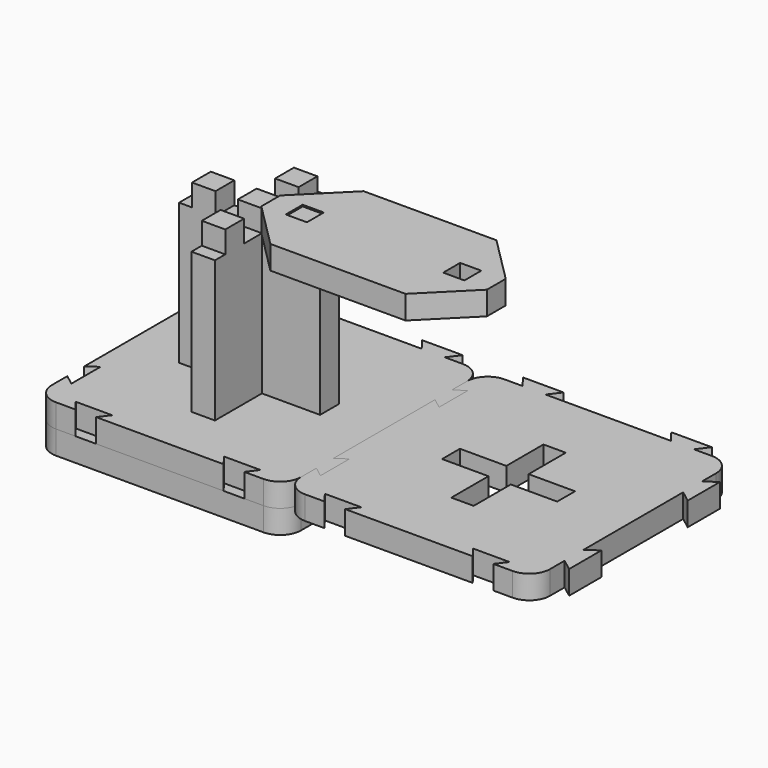
from build123d import *

# Parameters (mm, degrees)
SKETCH_W                     = 31.8
SKETCH_H                     = 31.8
PAD_DEPTH                    = 3
SKETCH001_R                  = 1.325
POCKET_DEPTH                 = 93.144885
SKETCH001_LINEARPATTERN_2_R  = 1.325
POCKET_LINEARPATTERN_2_DEPTH = 93.144885
SKETCH001_LINEARPATTERN_3_R  = 1.325
POCKET_LINEARPATTERN_3_DEPTH = 93.144885
SKETCH001_LINEARPATTERN_4_R  = 1.325
POCKET_LINEARPATTERN_4_DEPTH = 93.144885
SKETCH001_LINEARPATTERN_5_R  = 1.325
POCKET_LINEARPATTERN_5_DEPTH = 93.144885
SKETCH001_LINEARPATTERN_6_R  = 1.325
POCKET_LINEARPATTERN_6_DEPTH = 93.144885
SKETCH001_LINEARPATTERN_7_R  = 1.325
POCKET_LINEARPATTERN_7_DEPTH = 93.144885
SKETCH001_LINEARPATTERN_8_R  = 1.325
POCKET_LINEARPATTERN_8_DEPTH = 93.144885
LINEARPATTERN001_COUNT       = 8
LINEARPATTERN001_PITCH       = 3.785714
FILLET_R                     = 2.65
PAD001_DEPTH                 = 3
FILLET001_R                  = 2.65
POCKET001_DEPTH              = 3.001
PAD002_DEPTH                 = 3
CLONE001_ROLL_ANGLE          = 180
CLONE001_PLACEMENT_ANGLE     = -90
SKETCH005_W                  = 2.7
SKETCH005_H                  = 2.7
PAD003_DEPTH                 = 3


with BuildPart() as stamp_base:
    # Sketch → Pad (new body)
    with BuildSketch(Plane.XY):
        with Locations((15.9, -15.9)):
            Rectangle(SKETCH_W, SKETCH_H)
    extrude(amount=PAD_DEPTH)

    # Sketch001 (on Face6 of Pad) → Pocket (cut, through all)
    with BuildSketch(Plane.XY.offset(3)):
        with Locations((2.65, -2.65)):
            Circle(SKETCH001_R)
    pocket = extrude(amount=-POCKET_DEPTH, mode=Mode.SUBTRACT)

    # Sketch001 LinearPattern 2 → Pocket LinearPattern 2 (cut, through all)
    with BuildSketch(Plane(origin=(3.785714, 0, 3), x_dir=(1, 0, 0), z_dir=(0, 0, 1))):
        with Locations((2.65, -2.65)):
            Circle(SKETCH001_LINEARPATTERN_2_R)
    pocket_linearpattern_2 = extrude(amount=-POCKET_LINEARPATTERN_2_DEPTH, mode=Mode.SUBTRACT)

    # Sketch001 LinearPattern 3 → Pocket LinearPattern 3 (cut, through all)
    with BuildSketch(Plane(origin=(7.571429, 0, 3), x_dir=(1, 0, 0), z_dir=(0, 0, 1))):
        with Locations((2.65, -2.65)):
            Circle(SKETCH001_LINEARPATTERN_3_R)
    pocket_linearpattern_3 = extrude(amount=-POCKET_LINEARPATTERN_3_DEPTH, mode=Mode.SUBTRACT)

    # Sketch001 LinearPattern 4 → Pocket LinearPattern 4 (cut, through all)
    with BuildSketch(Plane(origin=(11.357143, 0, 3), x_dir=(1, 0, 0), z_dir=(0, 0, 1))):
        with Locations((2.65, -2.65)):
            Circle(SKETCH001_LINEARPATTERN_4_R)
    pocket_linearpattern_4 = extrude(amount=-POCKET_LINEARPATTERN_4_DEPTH, mode=Mode.SUBTRACT)

    # Sketch001 LinearPattern 5 → Pocket LinearPattern 5 (cut, through all)
    with BuildSketch(Plane(origin=(15.142857, 0, 3), x_dir=(1, 0, 0), z_dir=(0, 0, 1))):
        with Locations((2.65, -2.65)):
            Circle(SKETCH001_LINEARPATTERN_5_R)
    pocket_linearpattern_5 = extrude(amount=-POCKET_LINEARPATTERN_5_DEPTH, mode=Mode.SUBTRACT)

    # Sketch001 LinearPattern 6 → Pocket LinearPattern 6 (cut, through all)
    with BuildSketch(Plane(origin=(18.928571, 0, 3), x_dir=(1, 0, 0), z_dir=(0, 0, 1))):
        with Locations((2.65, -2.65)):
            Circle(SKETCH001_LINEARPATTERN_6_R)
    pocket_linearpattern_6 = extrude(amount=-POCKET_LINEARPATTERN_6_DEPTH, mode=Mode.SUBTRACT)

    # Sketch001 LinearPattern 7 → Pocket LinearPattern 7 (cut, through all)
    with BuildSketch(Plane(origin=(22.714286, 0, 3), x_dir=(1, 0, 0), z_dir=(0, 0, 1))):
        with Locations((2.65, -2.65)):
            Circle(SKETCH001_LINEARPATTERN_7_R)
    pocket_linearpattern_7 = extrude(amount=-POCKET_LINEARPATTERN_7_DEPTH, mode=Mode.SUBTRACT)

    # Sketch001 LinearPattern 8 → Pocket LinearPattern 8 (cut, through all)
    with BuildSketch(Plane(origin=(26.5, 0, 3), x_dir=(1, 0, 0), z_dir=(0, 0, 1))):
        with Locations((2.65, -2.65)):
            Circle(SKETCH001_LINEARPATTERN_8_R)
    pocket_linearpattern_8 = extrude(amount=-POCKET_LINEARPATTERN_8_DEPTH, mode=Mode.SUBTRACT)

    # LinearPattern001: Pocket, Pocket LinearPattern 2, Pocket LinearPattern 3, Pocket LinearPattern 4, Pocket LinearPattern 5, Pocket LinearPattern 6, Pocket LinearPattern 7, Pocket LinearPattern 8 ×8
    with Locations(*[(0, -i * LINEARPATTERN001_PITCH, 0) for i in range(1, LINEARPATTERN001_COUNT)]):
        add(pocket, mode=Mode.SUBTRACT)
        add(pocket_linearpattern_2, mode=Mode.SUBTRACT)
        add(pocket_linearpattern_3, mode=Mode.SUBTRACT)
        add(pocket_linearpattern_4, mode=Mode.SUBTRACT)
        add(pocket_linearpattern_5, mode=Mode.SUBTRACT)
        add(pocket_linearpattern_6, mode=Mode.SUBTRACT)
        add(pocket_linearpattern_7, mode=Mode.SUBTRACT)
        add(pocket_linearpattern_8, mode=Mode.SUBTRACT)

    # Fillet
    fillet_edges = [stamp_base.edges().sort_by_distance(p)[0] for p in [
        (0, 0, 1.5),
        (31.8, 0, 1.5),
        (0, -31.8, 1.5),
        (31.8, -31.8, 1.5),
    ]]
    fillet(fillet_edges, radius=FILLET_R)


with BuildPart() as stamp_back:
    # Sketch002 (on Face5 of Binder) → Pad001 (new body)
    with BuildSketch(Plane.XY.offset(3)):
        Polygon((31.8, -31.8), (26.689286, -31.8), (27.689286, -30.475), (23.039286, -30.475), (24.039286, -31.8), (7.760714, -31.8), (8.760714, -30.475), (4.110714, -30.475), (5.110714, -31.8), (0, -31.8), (0, -26.689286), (1.325, -27.689286), (1.325, -23.039286), (0, -24.039286), (0, -7.760714), (1.325, -8.760714), (1.325, -4.110714), (0, -5.110714), (0, 0), (4.960714, 0), (3.847507, 1.475), (9.023922, 1.475), (7.910714, 0), (23.889286, 0), (22.776078, 1.475), (27.952493, 1.475), (26.839286, 0), (31.8, 0), (31.8, -4.960714), (33.275, -3.847507), (33.275, -9.023922), (31.8, -7.910714), (31.8, -23.889286), (33.275, -22.776078), (33.275, -27.952493), (31.8, -26.839286), align=None)
    extrude(amount=PAD001_DEPTH)

    # Fillet001
    fillet001_edges = [stamp_back.edges().sort_by_distance(p)[0] for p in [
        (0, 0, 4.5),
        (31.8, 0, 4.5),
        (31.8, -31.8, 4.5),
        (0, -31.8, 4.5),
    ]]
    fillet(fillet001_edges, radius=FILLET001_R)

    # Sketch003 (on Face5 of Fillet001) → Pocket001 (cut, through all)
    with BuildSketch(Plane.XY.offset(6)):
        Polygon((8.55, -14.475), (14.475, -14.475), (14.475, -8.55), (17.325, -8.55), (17.325, -14.475), (23.25, -14.475), (23.25, -17.325), (17.325, -17.325), (17.325, -23.25), (14.475, -23.25), (14.475, -17.325), (8.55, -17.325), align=None)
    extrude(amount=-POCKET001_DEPTH, mode=Mode.SUBTRACT)


with BuildPart() as clone:
    # Clone base: copy of Stamp_Back
    add(stamp_back.part)


with BuildPart() as clone_1:
    # Clone placement: moved
    add(clone.part.moved(Location((31.8, 0, 0))))


with BuildPart() as body002:
    # Sketch004 (on Face50 of Binder001) → Pad002 (new body)
    with BuildSketch(Plane.XZ.offset(14.475)):
        Polygon((6.9, 6), (6.9, 24), (8.55, 24), (8.55, 26.8), (11.55, 26.8), (11.55, 24), (14.4, 24), (14.4, 26.8), (17.4, 26.8), (17.4, 24), (20.25, 24), (20.25, 26.8), (23.25, 26.8), (23.25, 24), (24.9, 24), (24.9, 6), (23.25, 6), (23.25, 3.2), (20.25, 3.2), (20.25, 6), (17.3, 6), (17.3, 15), (14.5, 15), (14.5, 6), (11.55, 6), (11.55, 3.2), (8.55, 3.2), (8.55, 6), align=None)
    extrude(amount=PAD002_DEPTH)


with BuildPart() as clone001:
    # Clone001 base: copy of Body002
    add(body002.part)


with BuildPart() as clone001_1:
    # Clone001 roll: moved
    add(clone001.part.rotate(Axis((0, 0, 0), (1, 0, 0)), CLONE001_ROLL_ANGLE))


with BuildPart() as clone001_2:
    # Clone001 placement: moved
    add(clone001_1.part.moved(Location((0, -0.07, 30))).rotate(Axis((0, -0.07, 30), (0, 0, 1)), CLONE001_PLACEMENT_ANGLE))


with BuildPart() as coupler:
    # Sketch005 (on Face10 of Binder002) → Pad003 (new body)
    with BuildSketch(Plane.XY.offset(24)):
        Polygon((31.8, -8.55), (23.325, -8.55), (17.4, -14.475), (17.4, -17.475), (23.175, -23.25), (31.8, -23.25), (40.425, -23.25), (46.2, -17.475), (46.2, -14.475), (40.275, -8.55), align=None)
        with Locations((21.75, -15.975)):
            Rectangle(SKETCH005_W, SKETCH005_H, mode=Mode.SUBTRACT)
        with Locations((41.85, -15.975)):
            Rectangle(SKETCH005_W, SKETCH005_H, mode=Mode.SUBTRACT)
    extrude(amount=PAD003_DEPTH)


solid = Compound([stamp_base.part, stamp_back.part, clone_1.part, body002.part, clone001_2.part, coupler.part])
